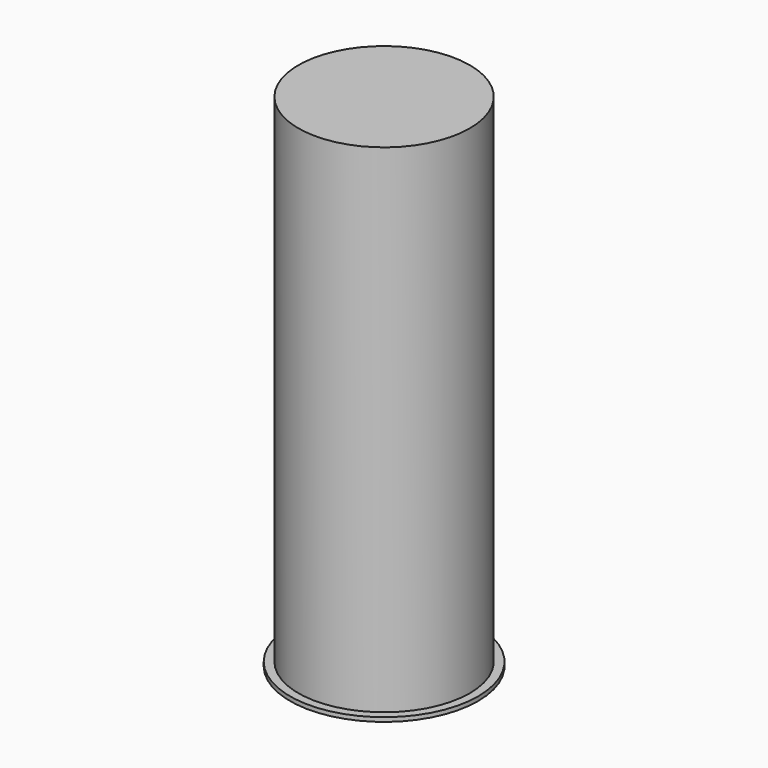
from build123d import *

# Parameters (mm, degrees)
F0_R     = 26.035
F1_DEPTH = 152.4
F0_R_2   = 28.575
F2_DEPTH = 1.27
F3_T     = -0.0127


with BuildPart() as f1:
    # F0 (on Top) → F1 (new body)
    with BuildSketch(Plane.XY):
        with Locations((-105.3665056825, 105.7969033718)):
            Circle(F0_R)
    extrude(amount=F1_DEPTH)

    # F0 (on Top) → F2 (join)
    with BuildSketch(Plane.XY):
        with Locations((-105.3665056825, 105.7969033718)):
            Circle(F0_R_2)
        with Locations((-105.3665056825, 105.7969033718)):
            Circle(F0_R, mode=Mode.SUBTRACT)
    extrude(amount=F2_DEPTH)

    # F3
    f3_openings = [f1.faces().sort_by_distance(p)[0] for p in [
        (-105.366506, 105.796903, 0),
    ]]
    offset(amount=F3_T, openings=f3_openings, kind=Kind.INTERSECTION)


solid = f1.part
